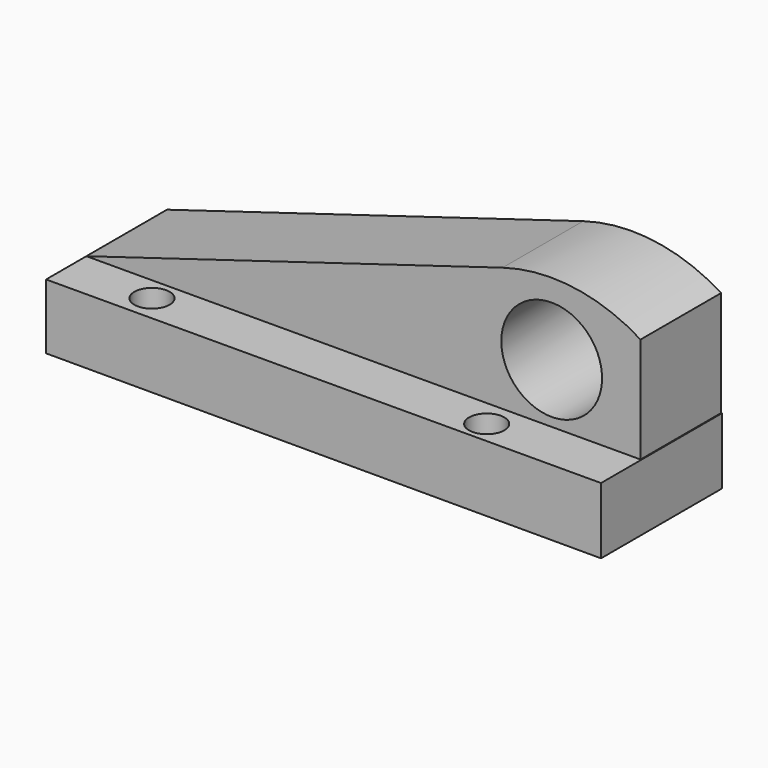
from build123d import *

# Parameters (mm, degrees)
F2_DEPTH = 25.4
F3_DEPTH = 38.1
F5_D     = 25.4
F7_D     = 8.89
F9_D     = 8.89


with BuildPart() as f2:
    # F0 (on Front) → F2 (new body)
    with BuildSketch(Plane.XZ):
        with BuildLine():
            Line((32.1897119284, -6.3450871967), (-72.7363675833, -37.9157625139))
            Line((-72.7363675833, -37.9157625139), (66.9636324167, -37.9157625139))
            Line((66.9636324167, -37.9157625139), (66.9636324167, -10.9878340736))
            ThreePointArc((66.9636324167, -10.9878340736), (50.0775206609, -4.9151328172), (32.1897119284, -6.3450871967))
        make_face()
    extrude(amount=F2_DEPTH)

    # F1 (on Front) → F3 (join)
    with BuildSketch(Plane.XZ):
        Polygon((67.1650767326, -54.3201342225), (67.1650767326, -37.6062467694), (-72.7363675833, -37.9157625139), (-72.7363675833, -54.3201342225), align=None)
    extrude(amount=F3_DEPTH)

    # F5 (through all)
    with Locations(Plane(origin=(0, 0, 0), x_dir=(1, 0, 0), z_dir=(0, 1, 0))):
        with Locations((44.5703677833, 22.749459371)):
            Hole(F5_D / 2)

    # F7 (through all)
    with Locations(Plane.XY):
        with Locations((-51.3797290623, -31.4159169793)):
            Hole(F7_D / 2)

    # F9 (through all)
    with Locations(Plane.XY):
        with Locations((33.7372943759, -32.3444679379)):
            Hole(F9_D / 2)


solid = f2.part
